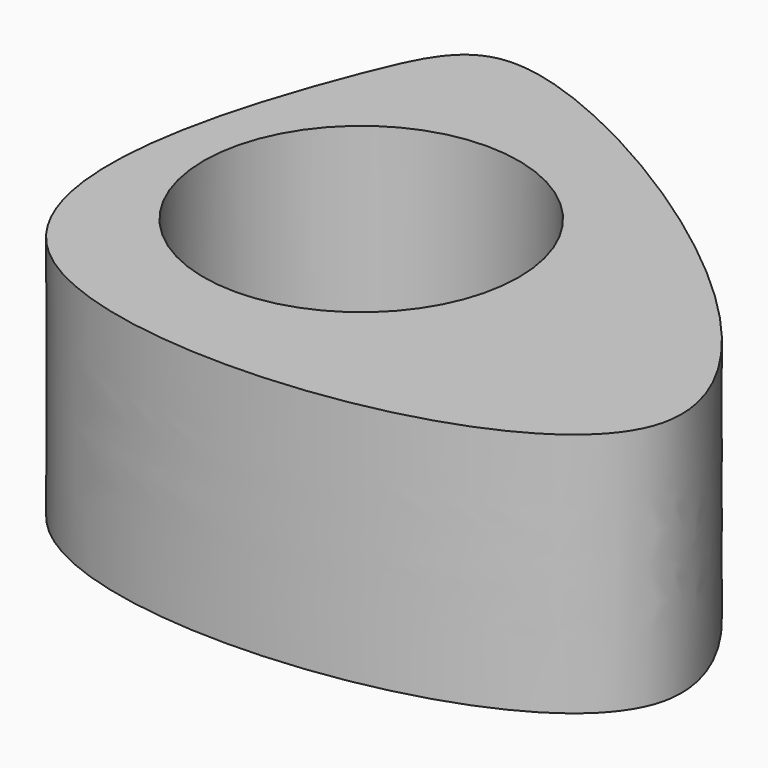
from build123d import *

# Parameters (mm, degrees)
F0_R     = 24.4740296613
F1_DEPTH = 38.1


with BuildPart() as f1:
    # F0 (on Top) → F1 (new body)
    with BuildSketch(Plane.XY):
        with BuildLine():
            add(Edge.make_bspline(
                [(-28.8035999984, 41.8961457908), (-24.8675803228, 51.8912237642), (-16.266393878, 67.8749432856), (113.4062927935, -19.8156519205), (-57.236122124, -42.2249537885), (-35.4769415925, 24.9499475818), (-28.8035999984, 41.8961457908)],
                knots=[0, 0, 0, 0, 0.1474051159, 0.4545141714, 0.7500813582, 1, 1, 1, 1], degree=3))
        make_face()
        with Locations((-4.9460702576, 11.9287641719)):
            Circle(F0_R, mode=Mode.SUBTRACT)
    extrude(amount=F1_DEPTH)


solid = f1.part
